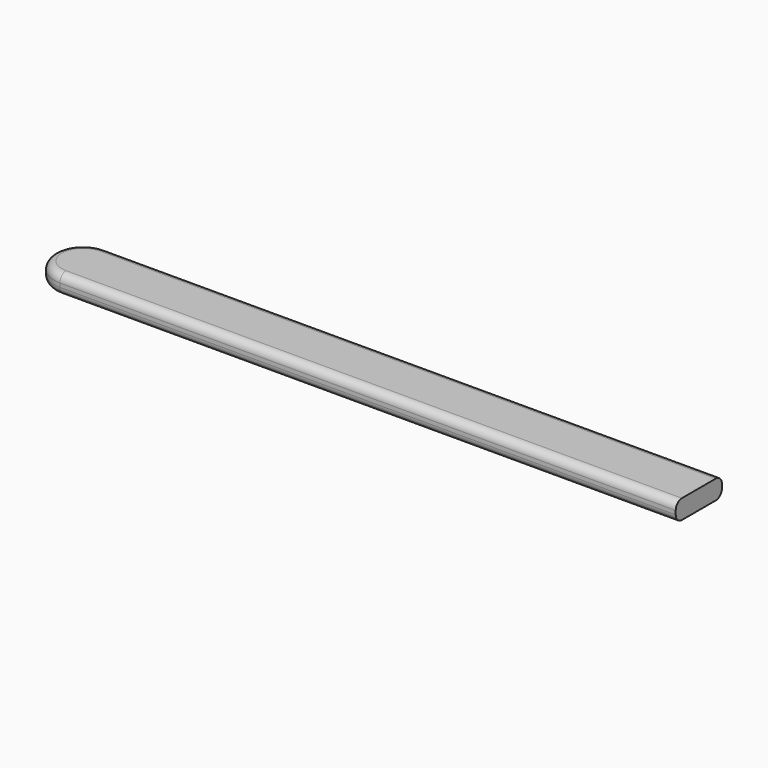
from build123d import *

# Parameters (mm, degrees)
F1_DEPTH = 6.35
F2_R     = 2.54


with BuildPart() as f1:
    # F0 (on Top) → F1 (new body)
    with BuildSketch(Plane.XY):
        with BuildLine():
            Line((-203.2, 0), (0, 0))
            Line((0, 0), (0, 19.05))
            Line((0, 19.05), (-203.2, 19.05))
            ThreePointArc((-203.2, 19.05), (-212.725, 9.525), (-203.2, 0))
        make_face()
    extrude(amount=F1_DEPTH)

    # F2
    f2_edges = [f1.edges().sort_by_distance(p)[0] for p in [
        (-101.6, 19.05, 0),
        (-101.6, 19.05, 6.35),
    ]]
    fillet(f2_edges, radius=F2_R)


solid = f1.part
